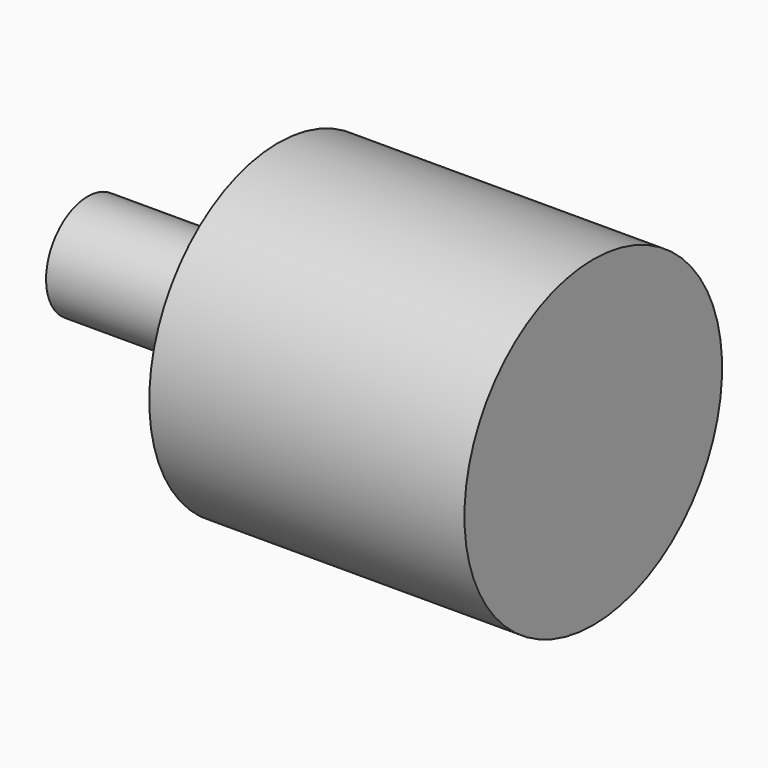
from build123d import *

# Parameters (mm, degrees)
F0_W = 16.5
F0_H = 4.5


with BuildPart() as f1:
    # F0 (on Front) → F1 (revolve)
    with BuildSketch(Plane.XZ):
        Polygon((0, 13.95), (-27.3, 13.95), (-27.3, 4.5), (-27.3, 0), (0, 0), align=None)
        with Locations((-35.55, 2.25)):
            Rectangle(F0_W, F0_H)
    revolve(axis=Axis((-21.9, 0, 0), (-1, 0, 0)))


solid = f1.part
